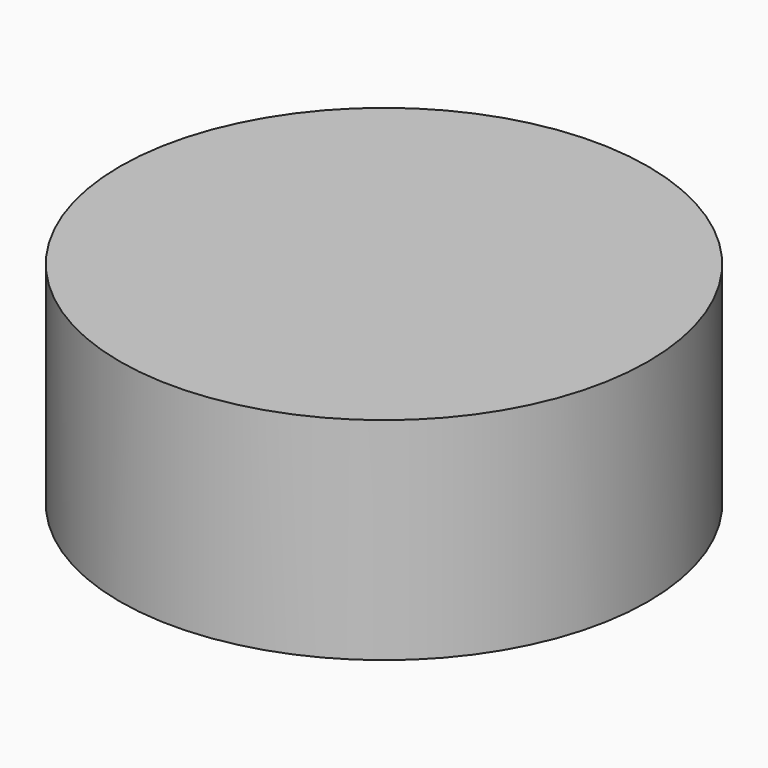
from build123d import *

# Parameters (mm, degrees)
BOX001_W       = 15
BOX001_H       = 20
BOX001_DEPTH   = 25
BOX_W          = 10
BOX_H          = 10
BOX_DEPTH      = 10
CYLINDER_R     = 50
CYLINDER_DEPTH = 40
BOX003_W       = 10
BOX003_H       = 10
BOX003_DEPTH   = 10
BOX002_W       = 10
BOX002_H       = 10
BOX002_DEPTH   = 10


with BuildPart() as cube001:
    # Box001 → Box001 (new body)
    with BuildSketch(Plane(origin=(5, 0, 0), x_dir=(1, 0, 0), z_dir=(0, 0, 1))):
        with Locations((7.5, 10)):
            Rectangle(BOX001_W, BOX001_H)
    extrude(amount=BOX001_DEPTH)


with BuildPart() as fusion:
    # Box → Box (new body)
    with BuildSketch(Plane.XY):
        with Locations((5, 5)):
            Rectangle(BOX_W, BOX_H)
    extrude(amount=BOX_DEPTH)

    # Fusion: union Cube001
    add(cube001.part)


with BuildPart() as cut:
    # Cylinder → Cylinder (new body)
    with BuildSketch(Plane.XY.offset(-3)):
        Circle(CYLINDER_R)
    extrude(amount=CYLINDER_DEPTH)

    # Cut: cut Fusion
    add(fusion.part, mode=Mode.SUBTRACT)


with BuildPart() as cube003:
    # Box003 → Box003 (new body)
    with BuildSketch(Plane(origin=(10, 10, 0), x_dir=(1, 0, 0), z_dir=(0, 0, 1))):
        with Locations((5, 5)):
            Rectangle(BOX003_W, BOX003_H)
    extrude(amount=BOX003_DEPTH)


with BuildPart() as fusion001:
    # Box002 → Box002 (new body)
    with BuildSketch(Plane.XY):
        with Locations((5, 5)):
            Rectangle(BOX002_W, BOX002_H)
    extrude(amount=BOX002_DEPTH)

    # Fusion001: union Cube003
    add(cube003.part)


solid = Compound([cut.part, fusion001.part])
